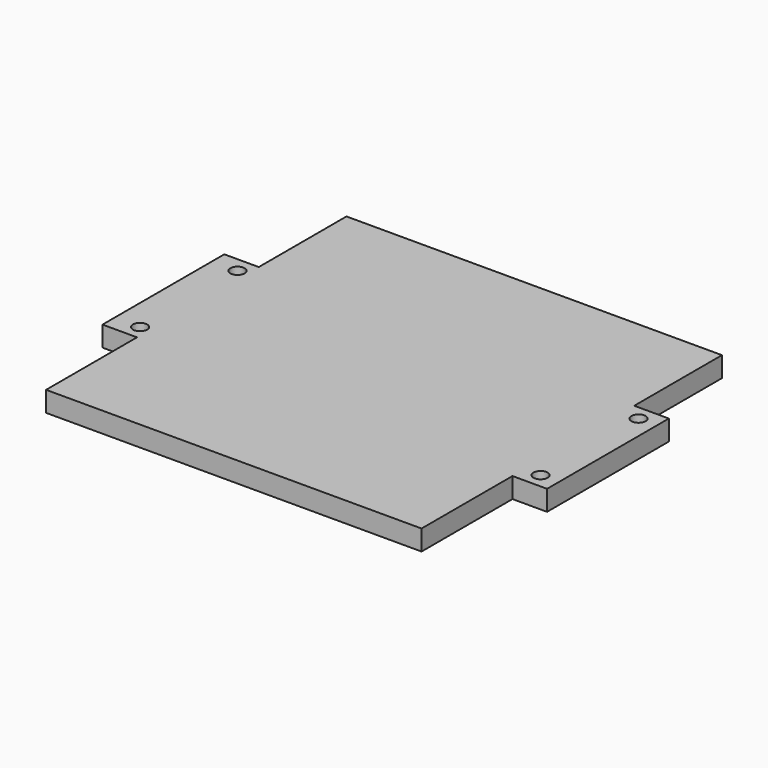
from build123d import *

# Parameters (mm, degrees)
F0_R     = 1.75
F1_DEPTH = 5


with BuildPart() as f1:
    # F0 (on Top) → F1 (new body)
    with BuildSketch(Plane.XY):
        with BuildLine():
            Line((57.7837471709, 69.5580622628), (-34.7162528291, 69.5580622628))
            Line((-34.7162528291, 69.5580622628), (-34.7162528291, 42.5580622628))
            Line((-34.7162528291, 42.5580622628), (-43.2162528291, 42.5580622628))
            Line((-43.2162528291, 42.5580622628), (-43.2162528291, 5.0580622628))
            Line((-43.2162528291, 5.0580622628), (-34.7162528291, 5.0580622628))
            Line((-34.7162528291, 5.0580622628), (-34.7162528291, -22.9419377372))
            Line((-34.7162528291, -22.9419377372), (57.7837471709, -22.9419377372))
            Line((57.7837471709, -22.9419377372), (57.7837471709, 5.0580622628))
            Line((57.7837471709, 5.0580622628), (61.776727438, 5.0580622628))
            Line((61.776727438, 5.0580622628), (61.7764500569, 6.9623562581))
            ThreePointArc((61.7764500569, 6.9623562581), (60.5385780505, 9.9496128474), (63.5261951319, 8.712611146))
            Line((63.5261951319, 8.712611146), (66.3054800854, 8.713015979))
            Line((66.3054800854, 8.713015979), (66.3054800854, 42.5580622628))
            Line((66.3054800854, 42.5580622628), (57.7837471709, 42.5580622628))
            Line((57.7837471709, 42.5580622628), (57.7837471709, 69.5580622628))
        make_face()
        with Locations((-36.9397651508, 8.7772880495)):
            Circle(F0_R, mode=Mode.SUBTRACT)
        with Locations((-36.9361157864, 38.7772880495)):
            Circle(F0_R, mode=Mode.SUBTRACT)
        with Locations((61.7687867672, 38.9017461427)):
            Circle(F0_R, mode=Mode.SUBTRACT)
        with BuildLine():
            Line((66.3054800854, 5.0580622628), (66.3054800854, 8.713015979))
            Line((66.3054800854, 8.713015979), (63.5261951319, 8.712611146))
            ThreePointArc((63.5261951319, 8.712611146), (63.5261951458, 8.7124836928), (63.5261951505, 8.7123562396))
            ThreePointArc((63.5261951505, 8.7123562396), (63.0137221373, 7.4750094988), (61.7764500569, 6.9623562581))
            Line((61.7764500569, 6.9623562581), (61.776727438, 5.0580622628))
            Line((61.776727438, 5.0580622628), (66.3054800854, 5.0580622628))
        make_face()
    extrude(amount=F1_DEPTH)


solid = f1.part
